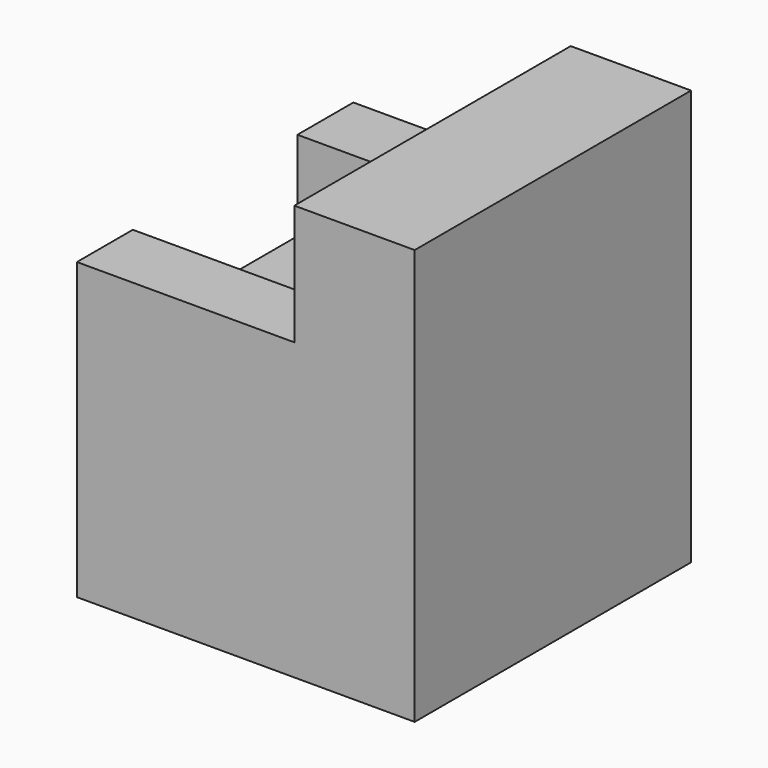
from build123d import *

# Parameters (mm, degrees)
F0_W     = 870
F0_H     = 890
F1_DEPTH = 1070
F2_W     = 530
F2_H     = 540
F3_DEPTH = 560
F4_W     = 180
F4_H     = 310
F5_DEPTH = 560


with BuildPart() as f1:
    # F0 (on Top) → F1 (new body)
    with BuildSketch(Plane.XY):
        Rectangle(F0_W, F0_H)
    extrude(amount=F1_DEPTH)

    # F2 (on face) → F3 (cut)
    with BuildSketch(Plane(origin=(-435, 0, 0), x_dir=(0, -1, 0), z_dir=(-1, 0, 0))):
        with Locations((0, 800)):
            Rectangle(F2_W, F2_H)
    extrude(amount=-F3_DEPTH, mode=Mode.SUBTRACT)

    # F4 (on face) → F5 (cut, through all)
    with BuildSketch(Plane(origin=(-435, 0, 0), x_dir=(0, -1, 0), z_dir=(-1, 0, 0))):
        with Locations((-355, 915)):
            Rectangle(F4_W, F4_H)
        with Locations((355, 915)):
            Rectangle(F4_W, F4_H)
    extrude(amount=-F5_DEPTH, mode=Mode.SUBTRACT)


solid = f1.part
